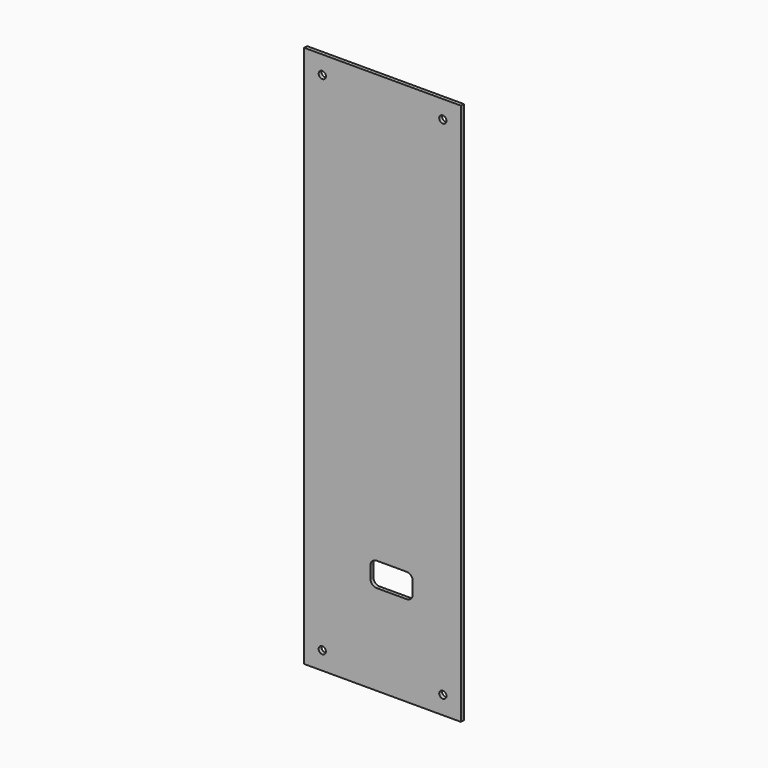
from build123d import *

# Parameters (mm, degrees)
F0_W     = 130
F0_H     = 450
F0_R     = 3
F1_DEPTH = 3


with BuildPart() as f1:
    # F0 (on Front) → F1 (new body)
    with BuildSketch(Plane.XZ):
        with Locations((65, 225)):
            Rectangle(F0_W, F0_H)
        with Locations((15, 15)):
            Circle(F0_R, mode=Mode.SUBTRACT)
        with BuildLine():
            ThreePointArc((55, 90), (56.464466, 93.535534), (60, 95))
            Line((60, 95), (85, 95))
            ThreePointArc((85, 95), (88.535534, 93.535534), (90, 90))
            Line((90, 90), (90, 80))
            ThreePointArc((90, 80), (88.535534, 76.464466), (85, 75))
            Line((85, 75), (60, 75))
            ThreePointArc((60, 75), (56.464466, 76.464466), (55, 80))
            Line((55, 80), (55, 90))
        make_face(mode=Mode.SUBTRACT)
        with Locations((115, 15)):
            Circle(F0_R, mode=Mode.SUBTRACT)
        with Locations((15, 435)):
            Circle(F0_R, mode=Mode.SUBTRACT)
        with Locations((115, 435)):
            Circle(F0_R, mode=Mode.SUBTRACT)
    extrude(amount=F1_DEPTH)


solid = f1.part
